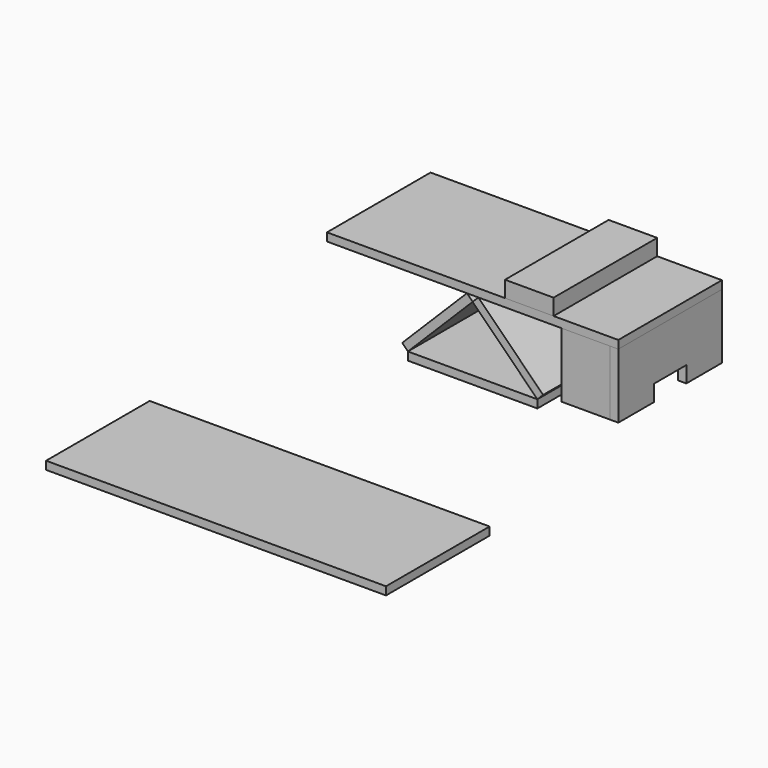
from build123d import *

# Parameters (mm, degrees)
F0_W      = 50.8
F0_H      = 3.175
F1_DEPTH  = 25.4
F3_W      = 114.3
F3_H      = 50.8
F4_DEPTH  = 3.175
F6_DEPTH  = 3.175
F7_W      = 19.05
F7_H      = 25.4
F8_DEPTH  = 3.175
F10_W     = 19.05
F10_H     = 50.8
F11_DEPTH = 6.35
F12_W     = 133.35
F12_H     = 50.8
F13_DEPTH = 3.175


with BuildPart() as f1:
    # F0 (on Front) → F1 (new body, symmetric)
    with BuildSketch(Plane.XZ):
        Polygon((-27.645064, 5.420064), (-25.4, 3.175), (0, 28.575), (-2.245064, 30.820064), align=None)
        with Locations((0, 1.5875)):
            Rectangle(F0_W, F0_H)
        Polygon((0, 28.575), (25.4, 3.175), (27.645064, 5.420064), (2.245064, 30.820064), align=None)
    extrude(amount=F1_DEPTH, both=True)


with BuildPart() as f4:
    # F3 (on face) → F4 (new body)
    with BuildSketch(Plane(origin=(0, 0, 30.820064), x_dir=(1, 0, 0), z_dir=(0, 0, -1))):
        Rectangle(F3_W, F3_H)
    extrude(amount=-F4_DEPTH)


with BuildPart() as f6:
    # F5 (on face) → F6 (new body)
    with BuildSketch(Plane.YZ.offset(57.15)):
        Polygon((25.4, 30.820064), (-25.4, 30.820064), (-25.4, 5.420064), (-7.9375, 5.420064), (-7.9375, 11.770064), (7.9375, 11.770064), (7.9375, 5.420064), (25.4, 5.420064), align=None)
    extrude(amount=-F6_DEPTH)


with BuildPart() as f8:
    # F7 (on face) → F8 (new body)
    with BuildSketch(Plane.XZ.offset(25.4)):
        with Locations((44.45, 18.120064)):
            Rectangle(F7_W, F7_H)
    extrude(amount=-F8_DEPTH)


with BuildPart() as f9_1:
    # F9: instance of F8
    add(f8.part.mirror(Plane.XZ))


with BuildPart() as f11:
    # F10 (on face) → F11 (new body)
    with BuildSketch(Plane.XY.offset(33.995064)):
        with Locations((22.225, 0)):
            Rectangle(F10_W, F10_H)
    extrude(amount=F11_DEPTH)


with BuildPart() as f13:
    # F12 (on Top) → F13 (new body)
    with BuildSketch(Plane.XY):
        with Locations((0, -125.827395)):
            Rectangle(F12_W, F12_H)
    extrude(amount=F13_DEPTH)


solid = Compound([f1.part, f4.part, f6.part, f8.part, f9_1.part, f11.part, f13.part])
